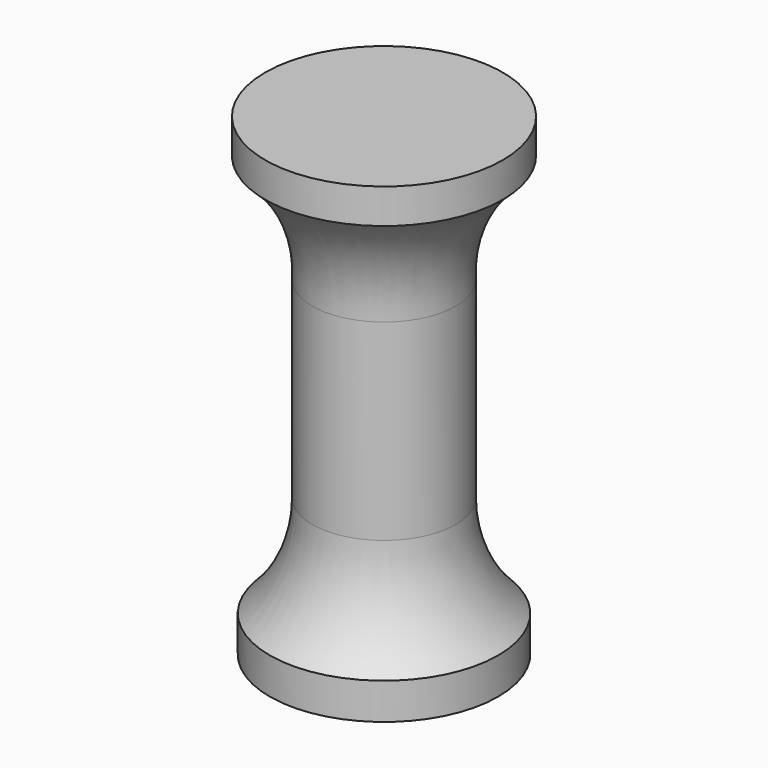
from build123d import *


with BuildPart() as f1:
    # F0 (on Front) → F1 (revolve)
    with BuildSketch(Plane.XZ):
        with BuildLine():
            Line((32.216486, 72.812662), (0, 72.812662))
            Line((0, 72.812662), (0, -55.692833))
            Line((0, -55.692833), (30.984804, -55.692833))
            Line((30.984804, -55.692833), (30.984804, -45.839377))
            ThreePointArc((30.984804, -45.839377), (22.47862, -33.23833), (19.489104, -18.331811))
            Line((19.489104, -18.331811), (19.489104, 33.809394))
            ThreePointArc((19.489104, 33.809394), (22.372698, 50.087954), (32.216486, 63.369766))
            Line((32.216486, 63.369766), (32.216486, 72.812662))
        make_face()
    revolve(axis=Axis((0, 0, -0.267141), (0, 0, -1)))


solid = f1.part
